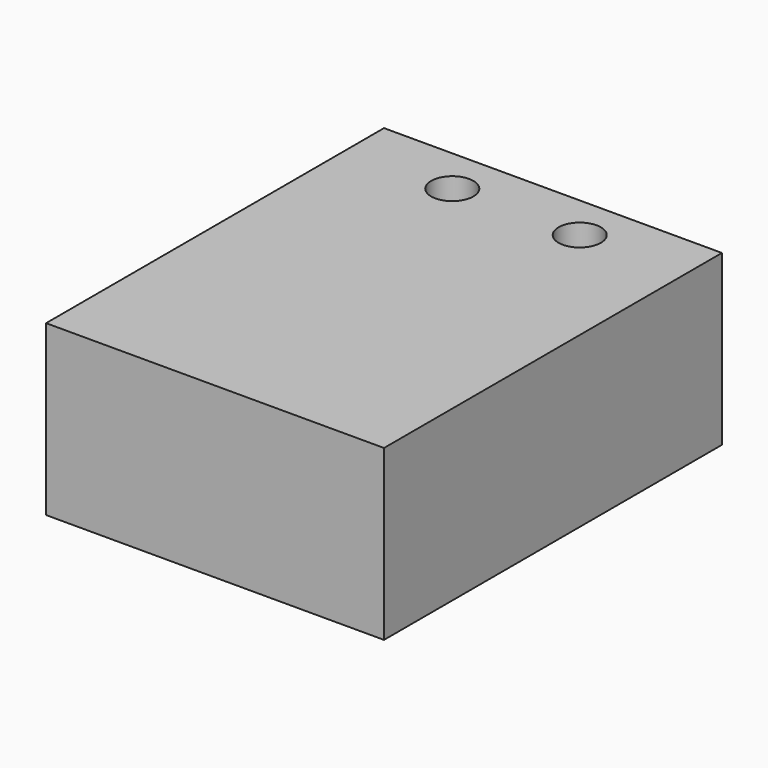
from build123d import *

# Parameters (mm, degrees)
F0_W     = 50.8
F0_H     = 25.4
F1_DEPTH = 63.5
F2_R     = 3.175
F3_DEPTH = 25.4


with BuildPart() as f1:
    # F0 (on Front) → F1 (new body)
    with BuildSketch(Plane.XZ):
        with Locations((25.4, 12.7)):
            Rectangle(F0_W, F0_H)
    extrude(amount=F1_DEPTH)

    # F2 (on face) → F3 (cut)
    with BuildSketch(Plane.XY.offset(25.4)):
        with Locations((15.875, -7.015655)):
            Circle(F2_R)
        with Locations((34.925, -6.874369)):
            Circle(F2_R)
    extrude(amount=-F3_DEPTH, mode=Mode.SUBTRACT)


solid = f1.part
